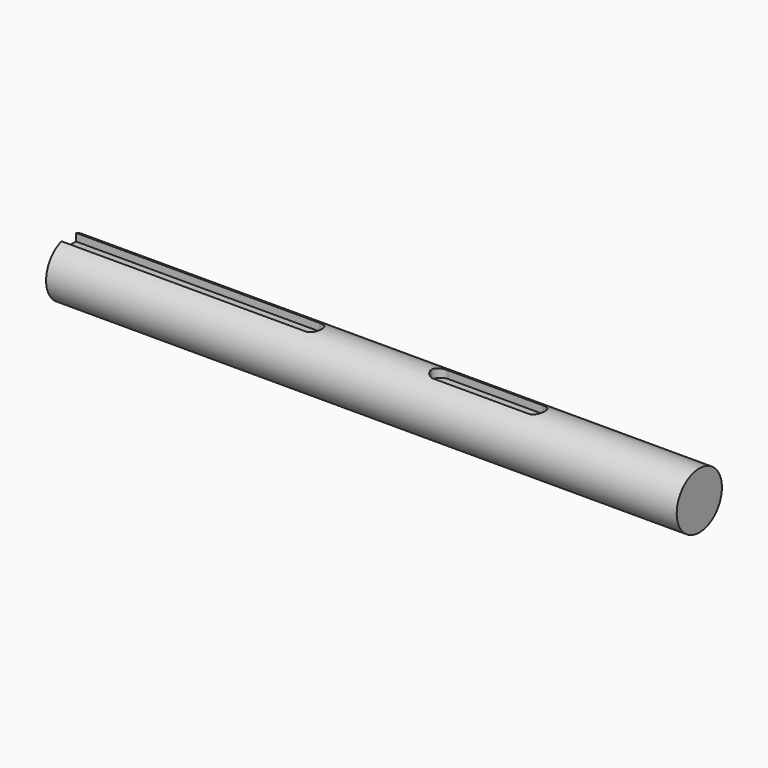
from build123d import *

# Parameters (mm, degrees)
F0_W     = 278.8
F0_H     = 12.5
F4_DEPTH = 4
F6_D     = 8
F6_DEPTH = 25
F6_TIP   = 2.4034424761
F8_DEPTH = 4


with BuildPart() as f1:
    # F0 (on Front) → F1 (revolve)
    with BuildSketch(Plane.XZ):
        with Locations((139.4, 6.25)):
            Rectangle(F0_W, F0_H)
    revolve(axis=Axis((139.4, 0, 0), (-1, 0, 0)))

    # F3 (on offset) → F4 (cut)
    with BuildSketch(Plane.XY.offset(12.5)):
        with BuildLine():
            Line((0, 4), (0, 0))
            Line((0, 0), (0, -4))
            Line((0, -4), (108, -4))
            ThreePointArc((108, -4), (110.8284271247, -2.8284271247), (112, 0))
            ThreePointArc((112, 0), (110.8284271247, 2.8284271247), (108, 4))
            Line((108, 4), (0, 4))
        make_face()
    extrude(amount=-F4_DEPTH, mode=Mode.SUBTRACT)

    # F6
    with Locations(Plane(origin=(0, 0, 0), x_dir=(0, -1, 0), z_dir=(-1, 0, 0))):
        with Locations((0, 0)):
            Hole(F6_D / 2, depth=F6_DEPTH)
            with Locations((0, 0, -(F6_DEPTH + F6_TIP / 2))):  # 118° drill point
                Cone(0, F6_D / 2, F6_TIP, mode=Mode.SUBTRACT)

    # F7 (on offset) → F8 (cut)
    with BuildSketch(Plane.XY.offset(12.5)):
        with BuildLine():
            ThreePointArc((210.5, 0), (209.3284271247, 2.8284271247), (206.5, 4))
            Line((206.5, 4), (164.5, 4))
            ThreePointArc((164.5, 4), (161.6715728753, 2.8284271247), (160.5, 0))
            ThreePointArc((160.5, 0), (161.6715728753, -2.8284271247), (164.5, -4))
            Line((164.5, -4), (206.5, -4))
            ThreePointArc((206.5, -4), (209.3284271247, -2.8284271247), (210.5, 0))
        make_face()
    extrude(amount=-F8_DEPTH, mode=Mode.SUBTRACT)


solid = f1.part
